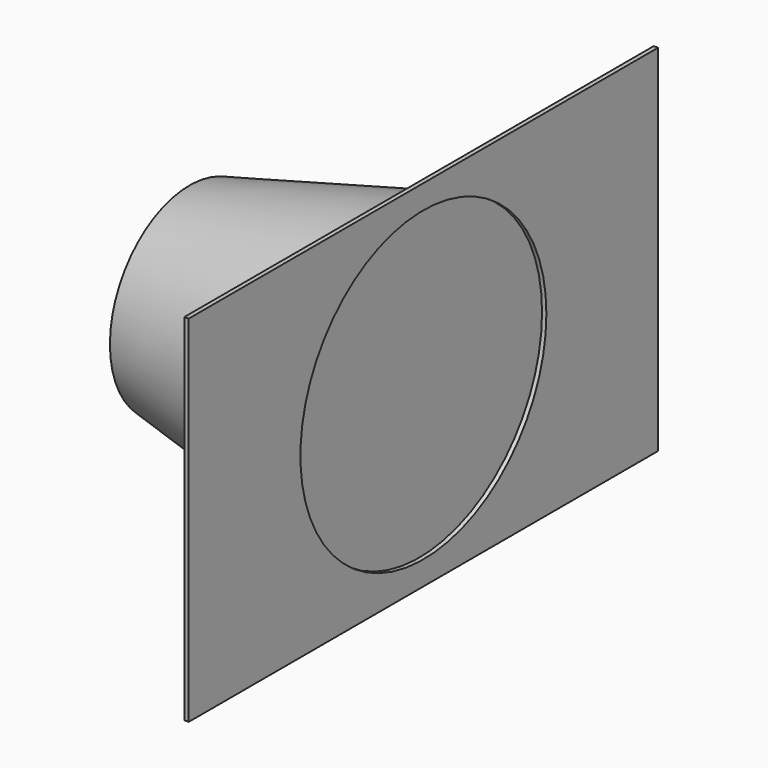
from build123d import *

# Parameters (mm, degrees)
F0_W     = 135.5
F0_H     = 82
F0_R     = 35.5
F1_DEPTH = 1
F2_R     = 36
F4_R     = 23


with BuildPart() as f1:
    # F0 (on Right) → F1 (new body)
    with BuildSketch(Plane.YZ):
        Rectangle(F0_W, F0_H)
        Circle(F0_R, mode=Mode.SUBTRACT)
    extrude(amount=F1_DEPTH)

    # F2 (on face) → F5 section 0
    with BuildSketch(Plane(origin=(0, 0, 0), x_dir=(0, -1, 0), z_dir=(-1, 0, 0))):
        Circle(F2_R)
    # F4 (on offset) → F5 section 1
    with BuildSketch(Plane.YZ.offset(-53)):
        Circle(F4_R)
    loft()


solid = f1.part
